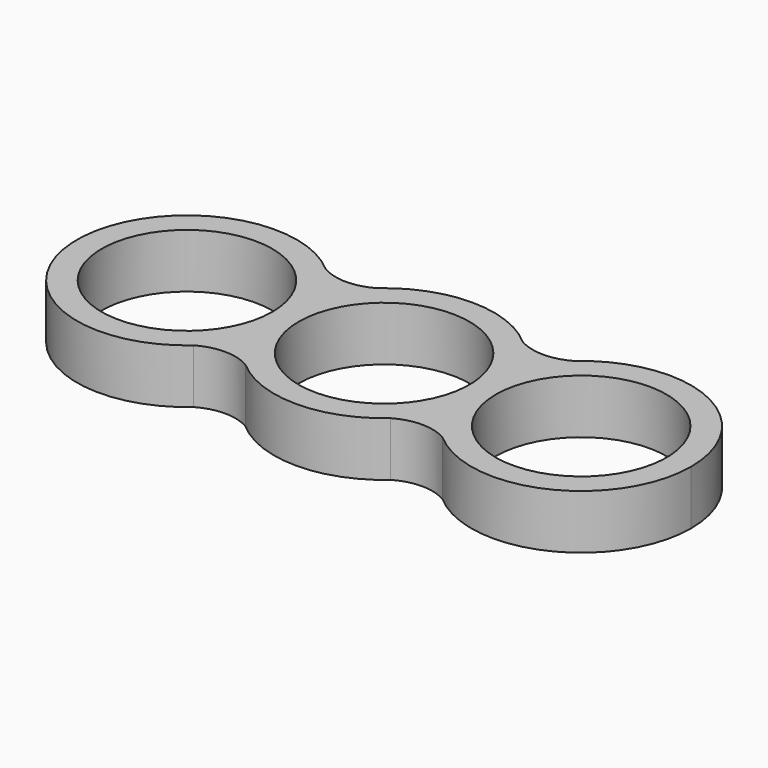
from build123d import *

# Parameters (mm, degrees)
F0_R     = 11
F1_DEPTH = 7


with BuildPart() as f1:
    # F0 (on Top) → F1 (new body)
    with BuildSketch(Plane.XY):
        with BuildLine():
            ThreePointArc((-12.7, -6.29608), (-13.801325, -3.233274), (-14.175, 0))
            ThreePointArc((-14.175, 0), (-13.801325, 3.233274), (-12.7, 6.29608))
            ThreePointArc((-12.7, 6.29608), (-14.150621, 8.624506), (-16.022588, 10.6299))
            ThreePointArc((-16.022588, 10.6299), (-39.574997, 0.009606), (-16.037004, -10.6426))
            ThreePointArc((-16.037004, -10.6426), (-14.156468, -8.632127), (-12.7, -6.29608))
        make_face()
        with Locations((-25.4, 0)):
            Circle(F0_R, mode=Mode.SUBTRACT)
        with BuildLine():
            Line((11.225, 0), (11, 0))
            ThreePointArc((11, 0), (0, -11), (-11, 0))
            Line((-11, 0), (-11.225, 0))
            ThreePointArc((-11.225, 0), (-11.598675, -3.233274), (-12.7, -6.29608))
            ThreePointArc((-12.7, -6.29608), (-11.243532, -8.632127), (-9.362996, -10.6426))
            ThreePointArc((-9.362996, -10.6426), (0, -14.175), (9.362996, -10.6426))
            ThreePointArc((9.362996, -10.6426), (11.243532, -8.632127), (12.7, -6.29608))
            ThreePointArc((12.7, -6.29608), (11.598675, -3.233274), (11.225, 0))
        make_face()
        with BuildLine():
            ThreePointArc((-16.022588, 10.6299), (-14.150621, 8.624506), (-12.7, 6.29608))
            ThreePointArc((-12.7, 6.29608), (-11.243532, 8.632127), (-9.362996, 10.6426))
            ThreePointArc((-9.362996, 10.6426), (-12.691091, 9.744086), (-16.022588, 10.6299))
        make_face()
        with BuildLine():
            ThreePointArc((-12.7, -6.29608), (-11.598675, -3.233274), (-11.225, 0))
            Line((-11.225, 0), (-14.175, 0))
            ThreePointArc((-14.175, 0), (-13.801325, -3.233274), (-12.7, -6.29608))
        make_face()
        with BuildLine():
            Line((-14.175, 0), (-11.225, 0))
            ThreePointArc((-11.225, 0), (-11.598675, 3.233274), (-12.7, 6.29608))
            ThreePointArc((-12.7, 6.29608), (-13.801325, 3.233274), (-14.175, 0))
        make_face()
        with BuildLine():
            ThreePointArc((-11, 0), (0, 11), (11, 0))
            Line((11, 0), (11.225, 0))
            ThreePointArc((11.225, 0), (11.598675, 3.233274), (12.7, 6.29608))
            ThreePointArc((12.7, 6.29608), (11.243532, 8.632127), (9.362996, 10.6426))
            ThreePointArc((9.362996, 10.6426), (0, 14.175), (-9.362996, 10.6426))
            ThreePointArc((-9.362996, 10.6426), (-11.243532, 8.632127), (-12.7, 6.29608))
            ThreePointArc((-12.7, 6.29608), (-11.598675, 3.233274), (-11.225, 0))
            Line((-11.225, 0), (-11, 0))
        make_face()
        with BuildLine():
            ThreePointArc((-9.362996, -10.6426), (-11.243532, -8.632127), (-12.7, -6.29608))
            ThreePointArc((-12.7, -6.29608), (-14.156468, -8.632127), (-16.037004, -10.6426))
            ThreePointArc((-16.037004, -10.6426), (-12.7, -9.7536), (-9.362996, -10.6426))
        make_face()
        with BuildLine():
            ThreePointArc((16.037004, -10.6426), (14.156468, -8.632127), (12.7, -6.29608))
            ThreePointArc((12.7, -6.29608), (11.243532, -8.632127), (9.362996, -10.6426))
            ThreePointArc((9.362996, -10.6426), (12.7, -9.7536), (16.037004, -10.6426))
        make_face()
        with BuildLine():
            ThreePointArc((12.7, 6.29608), (13.801325, 3.233274), (14.175, 0))
            ThreePointArc((14.175, 0), (13.801325, -3.233274), (12.7, -6.29608))
            ThreePointArc((12.7, -6.29608), (14.156468, -8.632127), (16.037004, -10.6426))
            ThreePointArc((16.037004, -10.6426), (31.239955, -12.916096), (39.575, 0))
            ThreePointArc((39.575, 0), (31.239955, 12.916096), (16.037004, 10.6426))
            ThreePointArc((16.037004, 10.6426), (14.156468, 8.632127), (12.7, 6.29608))
        make_face()
        with BuildLine():
            ThreePointArc((36.4, 0), (25.4, -11), (14.4, 0))
            ThreePointArc((14.4, 0), (25.4, 11), (36.4, 0))
        make_face(mode=Mode.SUBTRACT)
        with BuildLine():
            ThreePointArc((12.7, 6.29608), (11.598675, 3.233274), (11.225, 0))
            Line((11.225, 0), (14.175, 0))
            ThreePointArc((14.175, 0), (13.801325, 3.233274), (12.7, 6.29608))
        make_face()
        with BuildLine():
            Line((14.175, 0), (11.225, 0))
            ThreePointArc((11.225, 0), (11.598675, -3.233274), (12.7, -6.29608))
            ThreePointArc((12.7, -6.29608), (13.801325, -3.233274), (14.175, 0))
        make_face()
        with BuildLine():
            ThreePointArc((9.362996, 10.6426), (11.243532, 8.632127), (12.7, 6.29608))
            ThreePointArc((12.7, 6.29608), (14.156468, 8.632127), (16.037004, 10.6426))
            ThreePointArc((16.037004, 10.6426), (12.7, 9.7536), (9.362996, 10.6426))
        make_face()
    extrude(amount=F1_DEPTH)


solid = f1.part
